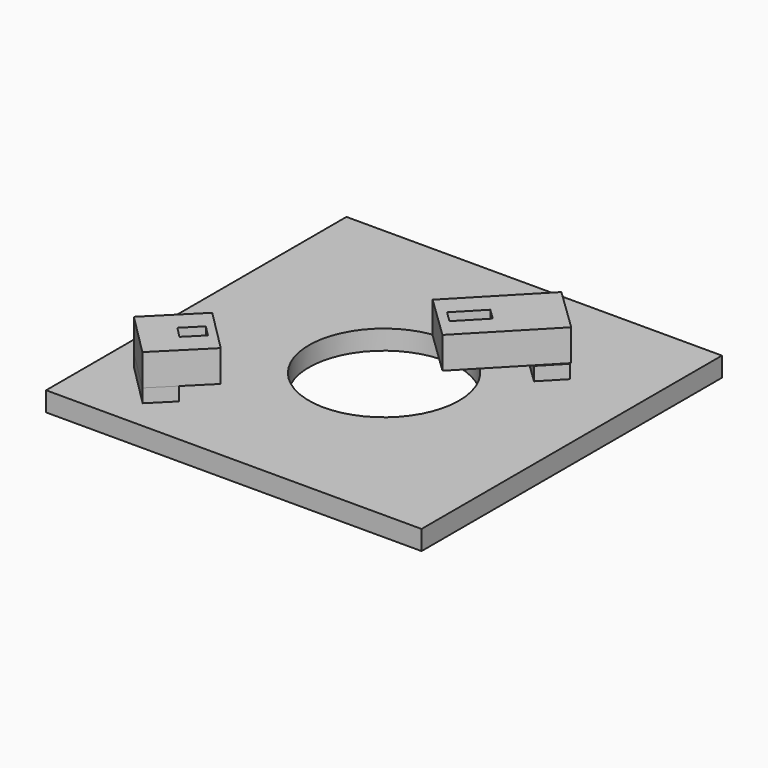
from build123d import *

# Parameters (mm, degrees)
SKETCH005_AS_DRAWN_W                      = 2.018315
SKETCH005_AS_DRAWN_H                      = 4.540272
EXTRUDE002_DEPTH                          = 4.5
EXTRUDE002_ONTO_SKETCH005_PLACEMENT_ANGLE = 136
BOX004_W                                  = 8
BOX004_H                                  = 13.5
BOX004_DEPTH                              = 4.2
BOX004_PLACEMENT_ANGLE                    = 136
BOX002_W                                  = 8
BOX002_H                                  = 3.8
BOX002_DEPTH                              = 1.8
BOX002_PLACEMENT_ANGLE                    = 136
SKETCH006_AS_DRAWN_W                      = 2.0548
SKETCH006_AS_DRAWN_H                      = 2.98173
EXTRUDE003_DEPTH                          = 4.5
EXTRUDE003_ONTO_SKETCH006_PLACEMENT_ANGLE = 135
BOX003_W                                  = 8
BOX003_H                                  = 8.2
BOX003_DEPTH                              = 4.2
BOX003_PLACEMENT_ANGLE                    = 135
BOX001_W                                  = 8
BOX001_H                                  = 3.8
BOX001_DEPTH                              = 1.8
BOX001_PLACEMENT_ANGLE                    = 135
CYLINDER_R                                = 10
CYLINDER_DEPTH                            = 2.6
BOX_W                                     = 50
BOX_H                                     = 50
BOX_DEPTH                                 = 2.6


with BuildPart() as extrude002:
    # Sketch005 as drawn → Extrude002 (new)
    with BuildSketch(Plane.XY):
        with Locations((3.98714, 10.110961)):
            Rectangle(SKETCH005_AS_DRAWN_W, SKETCH005_AS_DRAWN_H)
    extrude(amount=EXTRUDE002_DEPTH)


with BuildPart() as extrude002_1:
    # Extrude002 onto Sketch005 placement: moved
    add(extrude002.part.moved(Location((47.02, 42.01, 12.52))).rotate(Axis((47.02, 42.01, 12.52), (0, 0, 1)), EXTRUDE002_ONTO_SKETCH005_PLACEMENT_ANGLE))


with BuildPart() as extrude002_2:
    # Extrude002 placement: moved
    add(extrude002_1.part.moved(Location((0, 0, -4.5))))


with BuildPart() as cut003:
    # Box004 → Box004 (new body)
    with BuildSketch(Plane.XY):
        with Locations((4, 6.75)):
            Rectangle(BOX004_W, BOX004_H)
    extrude(amount=BOX004_DEPTH)


with BuildPart() as cut003_1:
    # Box004 placement: moved
    add(cut003.part.moved(Location((47.02, 42.01, 8.32))).rotate(Axis((47.02, 42.01, 8.32), (0, 0, 1)), BOX004_PLACEMENT_ANGLE))

    # Cut003: cut Extrude002
    add(extrude002_2.part, mode=Mode.SUBTRACT)


with BuildPart() as cut003_2:
    # Cut003 placement: moved
    add(cut003_1.part.moved(Location((-5.975619, -5.901068, -3.867182))))


with BuildPart() as fusion:
    # Box002 → Box002 (new body)
    with BuildSketch(Plane.XY):
        with Locations((4, 1.9)):
            Rectangle(BOX002_W, BOX002_H)
    extrude(amount=BOX002_DEPTH)


with BuildPart() as fusion_1:
    # Box002 placement: moved
    add(fusion.part.moved(Location((41, 36, 2.6))).rotate(Axis((41, 36, 2.6), (0, 0, 1)), BOX002_PLACEMENT_ANGLE))

    # Fusion: union Cut003
    add(cut003_2.part)


with BuildPart() as extrude003:
    # Sketch006 as drawn → Extrude003 (new)
    with BuildSketch(Plane.XY):
        with Locations((4.015499, 2.494238)):
            Rectangle(SKETCH006_AS_DRAWN_W, SKETCH006_AS_DRAWN_H)
    extrude(amount=EXTRUDE003_DEPTH)


with BuildPart() as extrude003_1:
    # Extrude003 onto Sketch006 placement: moved
    add(extrude003.part.moved(Location((15.55, 9.66, 12.99))).rotate(Axis((15.55, 9.66, 12.99), (0, 0, 1)), EXTRUDE003_ONTO_SKETCH006_PLACEMENT_ANGLE))


with BuildPart() as extrude003_2:
    # Extrude003 placement: moved
    add(extrude003_1.part.moved(Location((0, 0, -4.5))))


with BuildPart() as cut004:
    # Box003 → Box003 (new body)
    with BuildSketch(Plane.XY):
        with Locations((4, 4.1)):
            Rectangle(BOX003_W, BOX003_H)
    extrude(amount=BOX003_DEPTH)


with BuildPart() as cut004_1:
    # Box003 placement: moved
    add(cut004.part.moved(Location((15.55, 9.66, 8.79))).rotate(Axis((15.55, 9.66, 8.79), (0, 0, 1)), BOX003_PLACEMENT_ANGLE))

    # Cut004: cut Extrude003
    add(extrude003_2.part, mode=Mode.SUBTRACT)


with BuildPart() as cut004_2:
    # Cut004 placement: moved
    add(cut004_1.part.moved(Location((-0.080851, 0.078243, -4.376037))))


with BuildPart() as fusion001:
    # Box001 → Box001 (new body)
    with BuildSketch(Plane.XY):
        with Locations((4, 1.9)):
            Rectangle(BOX001_W, BOX001_H)
    extrude(amount=BOX001_DEPTH)


with BuildPart() as fusion001_1:
    # Box001 placement: moved
    add(fusion001.part.moved(Location((12.36, 6.67, 2.6))).rotate(Axis((12.36, 6.67, 2.6), (0, 0, 1)), BOX001_PLACEMENT_ANGLE))

    # Fusion001: union Cut004
    add(cut004_2.part)


with BuildPart() as cylinder:
    # Cylinder → Cylinder (new body)
    with BuildSketch(Plane(origin=(25, 25, 0), x_dir=(1, 0, 0), z_dir=(0, 0, 1))):
        Circle(CYLINDER_R)
    extrude(amount=CYLINDER_DEPTH)


with BuildPart() as fusion002:
    # Box → Box (new body)
    with BuildSketch(Plane.XY):
        with Locations((25, 25)):
            Rectangle(BOX_W, BOX_H)
    extrude(amount=BOX_DEPTH)

    # Cut: cut Cylinder
    add(cylinder.part, mode=Mode.SUBTRACT)

    # Fusion002: union Fusion, Fusion001
    add(fusion_1.part)
    add(fusion001_1.part)


solid = fusion002.part
